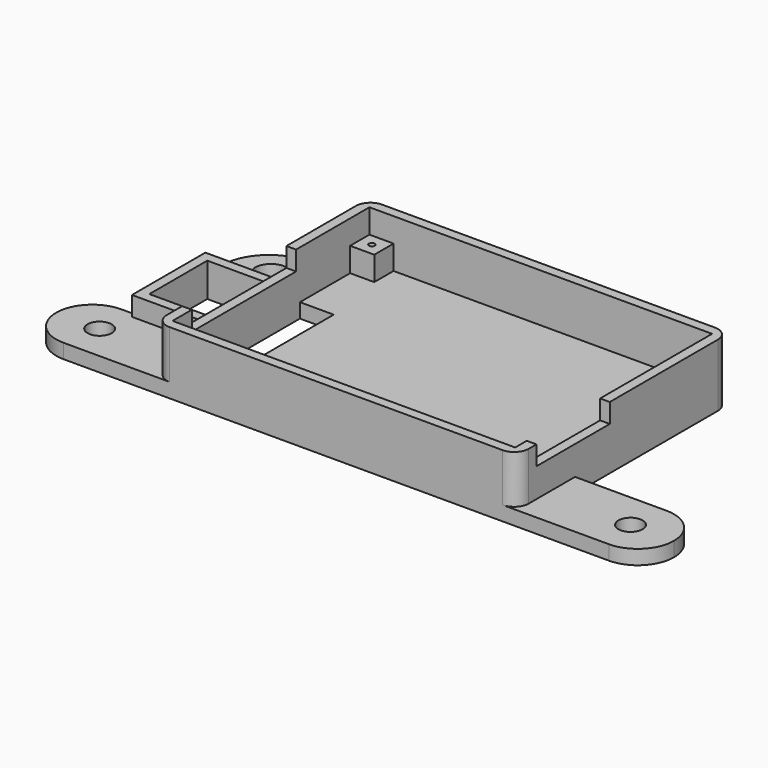
from build123d import *

# Parameters (mm, degrees)
SKETCH_W        = 75
SKETCH_H        = 55
PAD_DEPTH       = 3
SKETCH001_W     = 75
SKETCH001_H     = 55
SKETCH001_W_2   = 71
SKETCH001_H_2   = 51
PAD001_DEPTH    = 10
SKETCH002_W     = 5
SKETCH002_H     = 5
PAD002_DEPTH    = 5
SKETCH003_W     = 2
SKETCH003_H     = 19
POCKET_DEPTH    = 4
SKETCH004_W     = 2
SKETCH004_H     = 27
POCKET001_DEPTH = 4
SKETCH005_W     = 128
SKETCH005_H     = 15
PAD003_DEPTH    = 3
SKETCH006_R     = 2.5
POCKET002_DEPTH = 3
SKETCH007_W     = 16
SKETCH007_H     = 32
SKETCH007_R     = 3.25
SKETCH007_W_2   = 12
SKETCH007_H_2   = 15
PAD004_DEPTH    = 3
SKETCH010_W     = 7
SKETCH010_H     = 25
POCKET003_DEPTH = 3
SKETCH009_W     = 16
SKETCH009_H     = 19
SKETCH009_W_2   = 12
SKETCH009_H_2   = 15
PAD005_DEPTH    = 4
FILLET_R        = 10
FILLET001_R     = 3
FILLET002_R     = 3
FILLET003_R     = 3
FILLET004_R     = 3
FILLET005_R     = 7.5
FILLET006_R     = 7.49
FILLET007_R     = 7.49
FILLET008_R     = 7.5
SKETCH011_R     = 0.6
POCKET004_DEPTH = 5


with BuildPart() as part:
    # Sketch → Pad (new body)
    with BuildSketch(Plane.XY):
        with Locations((0, 27.5)):
            Rectangle(SKETCH_W, SKETCH_H)
    extrude(amount=PAD_DEPTH)

    # Sketch001 (on Face6 of Pad) → Pad001 (join)
    with BuildSketch(Plane.XY.offset(3)):
        with Locations((0, 27.5)):
            Rectangle(SKETCH001_W, SKETCH001_H)
        with Locations((0, 27.5)):
            Rectangle(SKETCH001_W_2, SKETCH001_H_2, mode=Mode.SUBTRACT)
    extrude(amount=PAD001_DEPTH)

    # Sketch002 (on Face15 of Pad001) → Pad002 (join)
    with BuildSketch(Plane.XY.offset(3)):
        with Locations((-33, 50.5)):
            Rectangle(SKETCH002_W, SKETCH002_H)
        with Locations((33, 50.5)):
            Rectangle(SKETCH002_W, SKETCH002_H)
        with Locations((33, 4.5)):
            Rectangle(SKETCH002_W, SKETCH002_H)
        with Locations((-33, 4.5)):
            Rectangle(SKETCH002_W, SKETCH002_H)
    extrude(amount=PAD002_DEPTH)

    # Sketch003 (on Face9 of Pad002) → Pocket (cut)
    with BuildSketch(Plane.XY.offset(13)):
        with Locations((36.5, 14.5)):
            Rectangle(SKETCH003_W, SKETCH003_H)
    extrude(amount=-POCKET_DEPTH, mode=Mode.SUBTRACT)

    # Sketch004 (on Face9 of Pocket) → Pocket001 (cut)
    with BuildSketch(Plane.XY.offset(13)):
        with Locations((-36.5, 20.5)):
            Rectangle(SKETCH004_W, SKETCH004_H)
    extrude(amount=-POCKET001_DEPTH, mode=Mode.SUBTRACT)

    # Sketch005 (on Face4 of Pocket001) → Pad003 (join)
    with BuildSketch(Plane(origin=(0, 0, 0), x_dir=(1, 0, 0), z_dir=(0, 0, -1))):
        with Locations((0, -7.5)):
            Rectangle(SKETCH005_W, SKETCH005_H)
    extrude(amount=-PAD003_DEPTH)

    # Sketch006 (on Face12 of Pad003) → Pocket002 (cut)
    with BuildSketch(Plane.XY.offset(3)):
        with Locations((-55, 7.5)):
            Circle(SKETCH006_R)
        with Locations((55, 7.5)):
            Circle(SKETCH006_R)
    extrude(amount=-POCKET002_DEPTH, mode=Mode.SUBTRACT)

    # Sketch007 (on Face4 of Pocket002) → Pad004 (join)
    with BuildSketch(Plane(origin=(0, 0, 0), x_dir=(1, 0, 0), z_dir=(0, 0, -1))):
        with Locations((-45.5, -31)):
            Rectangle(SKETCH007_W, SKETCH007_H)
        with Locations((-45.5, -40)):
            Circle(SKETCH007_R, mode=Mode.SUBTRACT)
        with Locations((-45.5, -23.5)):
            Rectangle(SKETCH007_W_2, SKETCH007_H_2, mode=Mode.SUBTRACT)
    extrude(amount=-PAD004_DEPTH)

    # Sketch010 (on Face46 of Pad004) → Pocket003 (cut)
    with BuildSketch(Plane.XY.offset(3)):
        with Locations((-32, 22.5)):
            Rectangle(SKETCH010_W, SKETCH010_H)
    extrude(amount=-POCKET003_DEPTH, mode=Mode.SUBTRACT)

    # Sketch009 (on Face22 of Pad004) → Pad005 (join)
    with BuildSketch(Plane.XY.offset(3)):
        with Locations((-45.5, 23.5)):
            Rectangle(SKETCH009_W, SKETCH009_H)
        with Locations((-45.5, 23.5)):
            Rectangle(SKETCH009_W_2, SKETCH009_H_2, mode=Mode.SUBTRACT)
    extrude(amount=PAD005_DEPTH)

    # Fillet
    fillet_edges = [part.edges().sort_by_distance(p)[0] for p in [
        (-53.5, 47, 1.5),
    ]]
    fillet(fillet_edges, radius=FILLET_R)

    # Fillet001
    fillet001_edges = [part.edges().sort_by_distance(p)[0] for p in [
        (37.5, 55, 8),
    ]]
    fillet(fillet001_edges, radius=FILLET001_R)

    # Fillet002
    fillet002_edges = [part.edges().sort_by_distance(p)[0] for p in [
        (-37.5, 55, 8),
    ]]
    fillet(fillet002_edges, radius=FILLET002_R)

    # Fillet003
    fillet003_edges = [part.edges().sort_by_distance(p)[0] for p in [
        (-37.5, 0, 8),
    ]]
    fillet(fillet003_edges, radius=FILLET003_R)

    # Fillet004
    fillet004_edges = [part.edges().sort_by_distance(p)[0] for p in [
        (37.5, 0, 8),
    ]]
    fillet(fillet004_edges, radius=FILLET004_R)

    # Fillet005
    fillet005_edges = [part.edges().sort_by_distance(p)[0] for p in [
        (64, 15, 1.5),
    ]]
    fillet(fillet005_edges, radius=FILLET005_R)

    # Fillet006
    fillet006_edges = [part.edges().sort_by_distance(p)[0] for p in [
        (64, 0, 1.5),
    ]]
    fillet(fillet006_edges, radius=FILLET006_R)

    # Fillet007
    fillet007_edges = [part.edges().sort_by_distance(p)[0] for p in [
        (-64, 0, 1.5),
    ]]
    fillet(fillet007_edges, radius=FILLET007_R)

    # Fillet008
    fillet008_edges = [part.edges().sort_by_distance(p)[0] for p in [
        (-64, 15, 1.5),
    ]]
    fillet(fillet008_edges, radius=FILLET008_R)

    # Sketch011 (on Face73 of Fillet008) → Pocket004 (cut)
    with BuildSketch(Plane.XY.offset(8)):
        with Locations((-33, 4.5)):
            Circle(SKETCH011_R)
        with Locations((33, 4.5)):
            Circle(SKETCH011_R)
        with Locations((-33, 50.5)):
            Circle(SKETCH011_R)
        with Locations((33, 50.5)):
            Circle(SKETCH011_R)
    extrude(amount=-POCKET004_DEPTH, mode=Mode.SUBTRACT)


solid = part.part
